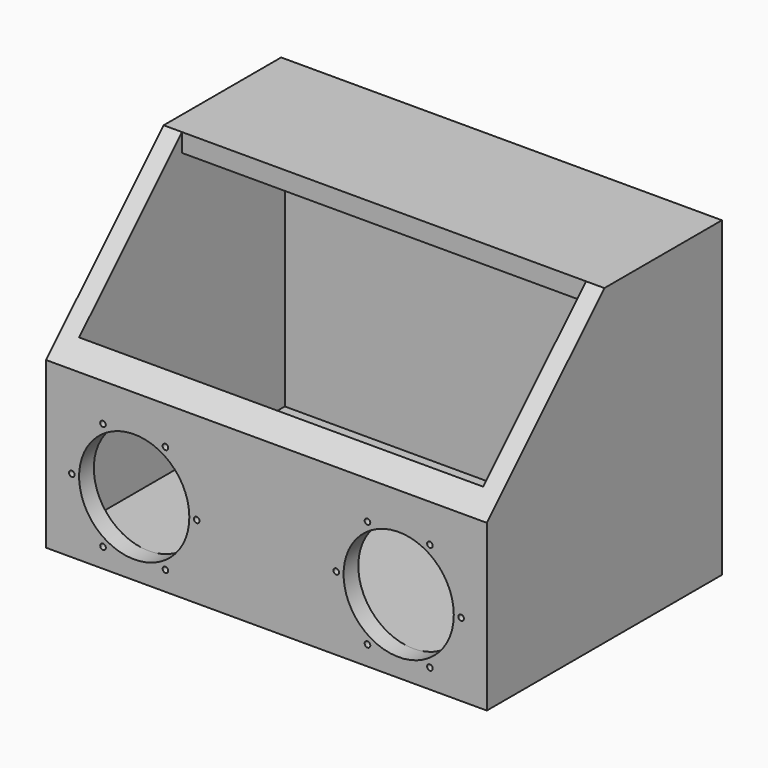
from build123d import *

# Parameters (mm, degrees)
F0_W      = 600
F0_H      = 400
F1_DEPTH  = 25
F2_W      = 600
F2_H      = 400
F2_W_2    = 550
F2_H_2    = 350
F3_DEPTH  = 400
F5_DEPTH  = 600.001
F6_W      = 600
F6_H      = 200
F7_DEPTH  = 25
F8_R      = 75
F8_R_2    = 3.81
F9_DEPTH  = 25.4
F10_DEPTH = 25.4


with BuildPart() as f1:
    # F0 (on Top) → F1 (new body)
    with BuildSketch(Plane.XY):
        Rectangle(F0_W, F0_H)
    extrude(amount=F1_DEPTH)

    # F2 (on face) → F3 (join)
    with BuildSketch(Plane.XY.offset(25)):
        Rectangle(F2_W, F2_H)
        Rectangle(F2_W_2, F2_H_2, mode=Mode.SUBTRACT)
    extrude(amount=F3_DEPTH)

    # F4 (on face) → F5 (cut, through all)
    with BuildSketch(Plane(origin=(-300, 0, 0), x_dir=(0, -1, 0), z_dir=(-1, 0, 0))):
        Polygon((200, 225), (200, 425), (0, 425), align=None)
    extrude(amount=-F5_DEPTH, mode=Mode.SUBTRACT)

    # F6 (on face) → F7 (join)
    with BuildSketch(Plane.XY.offset(425)):
        with Locations((0, 100)):
            Rectangle(F6_W, F6_H)
    extrude(amount=-F7_DEPTH)

    # F8 (on face) → F9 (cut)
    with BuildSketch(Plane.XZ.offset(200)):
        with Locations((-180, 100)):
            Circle(F8_R)
        with Locations((180, 100)):
            Circle(F8_R)
        with Locations((-95, 100)):
            Circle(F8_R_2)
        with Locations((-137.5, 173.612159)):
            Circle(F8_R_2)
        with Locations((-222.5, 173.612159)):
            Circle(F8_R_2)
        with Locations((-265, 100)):
            Circle(F8_R_2)
        with Locations((-222.5, 26.387841)):
            Circle(F8_R_2)
        with Locations((-137.5, 26.387841)):
            Circle(F8_R_2)
        with Locations((95, 100)):
            Circle(F8_R_2)
        with Locations((137.5, 26.387841)):
            Circle(F8_R_2)
        with Locations((222.5, 26.387841)):
            Circle(F8_R_2)
        with Locations((265, 100)):
            Circle(F8_R_2)
        with Locations((222.5, 173.612159)):
            Circle(F8_R_2)
        with Locations((137.5, 173.612159)):
            Circle(F8_R_2)
    extrude(amount=-F9_DEPTH, mode=Mode.SUBTRACT)

    # F8 (on face) → F10 (cut)
    with BuildSketch(Plane.XZ.offset(200)):
        with Locations((-180, 100)):
            Circle(F8_R)
        with Locations((180, 100)):
            Circle(F8_R)
        with Locations((-95, 100)):
            Circle(F8_R_2)
        with Locations((-137.5, 173.612159)):
            Circle(F8_R_2)
        with Locations((-222.5, 173.612159)):
            Circle(F8_R_2)
        with Locations((-265, 100)):
            Circle(F8_R_2)
        with Locations((-222.5, 26.387841)):
            Circle(F8_R_2)
        with Locations((-137.5, 26.387841)):
            Circle(F8_R_2)
        with Locations((95, 100)):
            Circle(F8_R_2)
        with Locations((137.5, 26.387841)):
            Circle(F8_R_2)
        with Locations((222.5, 26.387841)):
            Circle(F8_R_2)
        with Locations((265, 100)):
            Circle(F8_R_2)
        with Locations((222.5, 173.612159)):
            Circle(F8_R_2)
        with Locations((137.5, 173.612159)):
            Circle(F8_R_2)
    extrude(amount=-F10_DEPTH, mode=Mode.SUBTRACT)


solid = f1.part
